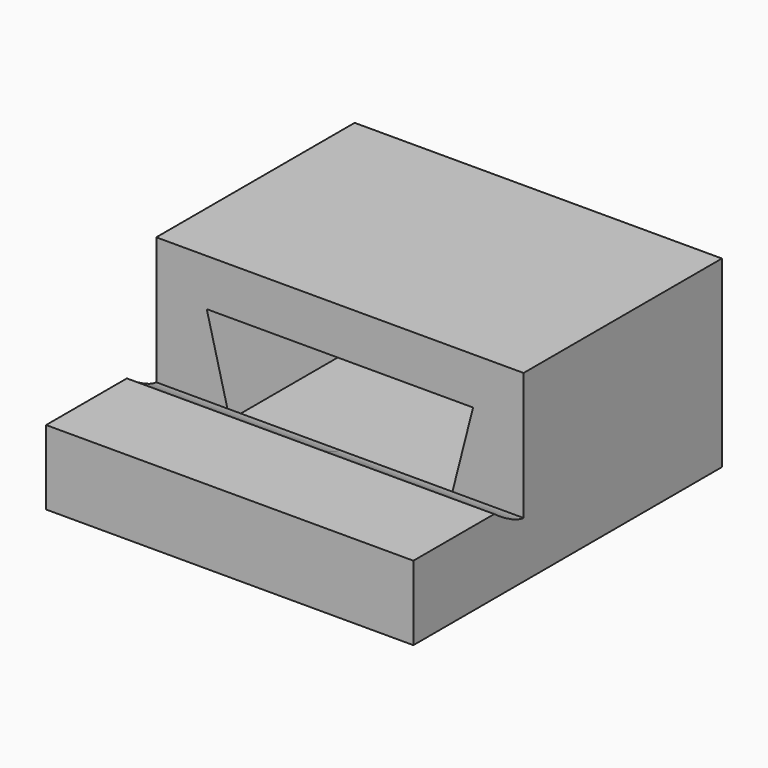
from build123d import *

# Parameters (mm, degrees)
F0_W     = 200
F0_H     = 100
F1_DEPTH = 110
F2_W     = 200
F2_H     = 100
F3_DEPTH = 25
F5_DEPTH = 100


with BuildPart() as f1:
    # F0 (on Front) → F1 (new body)
    with BuildSketch(Plane.XZ):
        Rectangle(F0_W, F0_H)
        Polygon((-60, -24.5), (-72.5, 24.5), (72.5, 24.5), (60, -24.5), align=None, mode=Mode.SUBTRACT)
    extrude(amount=-F1_DEPTH)

    # F2 (on face) → F3 (join)
    with BuildSketch(Plane(origin=(0, 110, 0), x_dir=(-1, 0, 0), z_dir=(0, 1, 0))):
        Rectangle(F2_W, F2_H)
    extrude(amount=F3_DEPTH)

    # F4 (on Right) → F5 (join, symmetric)
    with BuildSketch(Plane.YZ):
        with BuildLine():
            Line((-75, -50), (0, -50))
            Line((0, -50), (0, -19.5))
            add(Edge.make_bspline(
                [(0, -19.5), (-5.83801, -19.088345), (-16.211687, -12.465747), (-20, -9.5)],
                knots=[0, 0, 0, 0, 22.36068, 22.36068, 22.36068, 22.36068], degree=3))
            Line((-20, -9.5), (-75, -9.5))
            Line((-75, -9.5), (-75, -50))
        make_face()
    extrude(amount=F5_DEPTH, both=True)


solid = f1.part
